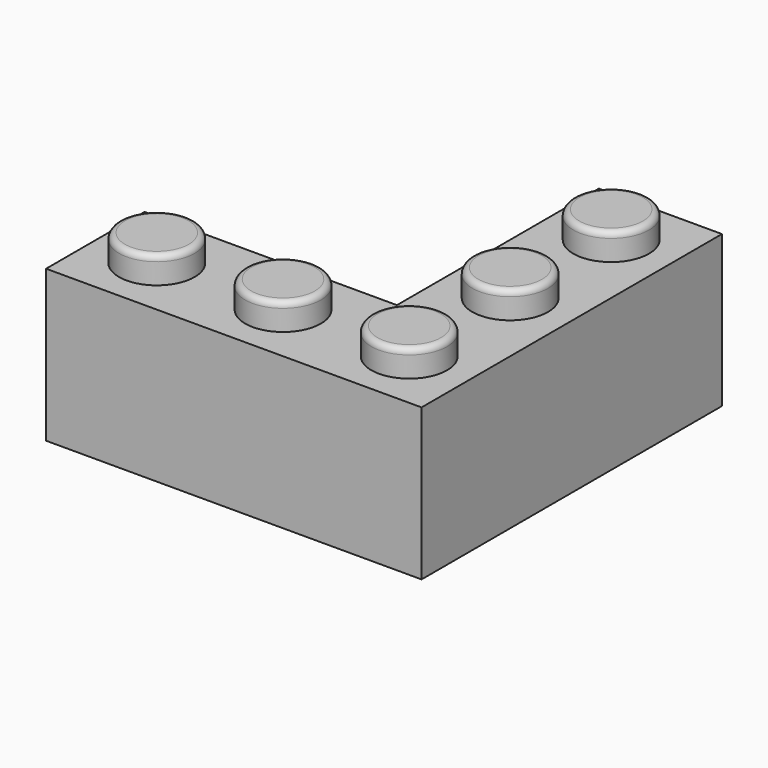
from build123d import *

# Parameters (mm, degrees)
F1_DEPTH  = 9.6
F2_R      = 2.4
F3_DEPTH  = 1.7
F4_R      = 0.381
F5_R      = 1.6
F5_R_2    = 1.397
F6_DEPTH  = 8.5852
F7_R      = 1.3
F8_DEPTH  = 1.397
F9_W      = 6.261934
F9_H      = 0.762
F9_W_2    = 6.41362
F9_W_3    = 0.762
F9_H_2    = 6.588616
F9_H_3    = 6.374116
F10_DEPTH = 6.35


with BuildPart() as f1:
    # F0 (on Top) → F1 (new body)
    with BuildSketch(Plane.XY):
        Polygon((0, 0), (-16, 0), (-16, -7.8), (7.8, -7.8), (7.8, 0), (7.8, 16), (0, 16), align=None)
    extrude(amount=F1_DEPTH)

    # F2 (on face) → F3 (join)
    with BuildSketch(Plane.XY.offset(9.6)):
        with Locations((-12.1, -3.9)):
            Circle(F2_R)
        with Locations((-4.1, -3.9)):
            Circle(F2_R)
        with Locations((3.9, -3.9)):
            Circle(F2_R)
        with Locations((3.9, 4.1)):
            Circle(F2_R)
        with Locations((3.9, 12.1)):
            Circle(F2_R)
    extrude(amount=F3_DEPTH)

    # F4
    f4_edges = [f1.edges().sort_by_distance(p)[0] for p in [
        (1.5, 12.1, 11.3),
        (1.5, 4.1, 11.3),
        (1.5, -3.9, 11.3),
        (-6.5, -3.9, 11.3),
        (-14.5, -3.9, 11.3),
    ]]
    fillet(f4_edges, radius=F4_R)

    # F5 (on face) → F6 (cut)
    with BuildSketch(Plane(origin=(0, 0, 0), x_dir=(1, 0, 0), z_dir=(0, 0, -1))):
        Polygon((6.53, 6.53), (-14.4, 6.53), (-14.4, 1.27), (1.27, 1.27), (1.27, -14.73), (6.53, -14.73), (6.53, 1.27), align=None)
        with Locations((3.9, -8.329)):
            Circle(F5_R, mode=Mode.SUBTRACT)
        with Locations((-8.126, 3.9)):
            Circle(F5_R_2, mode=Mode.SUBTRACT)
        with Locations((3.9, -0.531)):
            Circle(F5_R_2, mode=Mode.SUBTRACT)
        with Locations((-0.125, 3.9)):
            Circle(F5_R_2, mode=Mode.SUBTRACT)
    extrude(amount=-F6_DEPTH, mode=Mode.SUBTRACT)

    # F7 (on face) → F8 (cut)
    with BuildSketch(Plane(origin=(0, 0, 8.5852), x_dir=(1, 0, 0), z_dir=(0, 0, -1))):
        with Locations((-12.1, 3.9)):
            Circle(F7_R)
        with Locations((-4.1, 3.9)):
            Circle(F7_R)
        with Locations((3.9, 3.9)):
            Circle(F7_R)
        with Locations((3.9, -4.1)):
            Circle(F7_R)
        with Locations((3.9, -12.1)):
            Circle(F7_R)
    extrude(amount=-F8_DEPTH, mode=Mode.SUBTRACT)

    # F9 (on face) → F10 (join)
    with BuildSketch(Plane(origin=(0, 0, 8.5852), x_dir=(1, 0, 0), z_dir=(0, 0, -1))):
        with Locations((3.9, -0.531)):
            Rectangle(F9_W, F9_H)
        with Locations((3.9, -8.329)):
            Rectangle(F9_W_2, F9_H)
        with Locations((-8.126, 3.9)):
            Rectangle(F9_W_3, F9_H_2)
        with Locations((-0.125, 3.9)):
            Rectangle(F9_W_3, F9_H_3)
    extrude(amount=F10_DEPTH)


solid = f1.part
